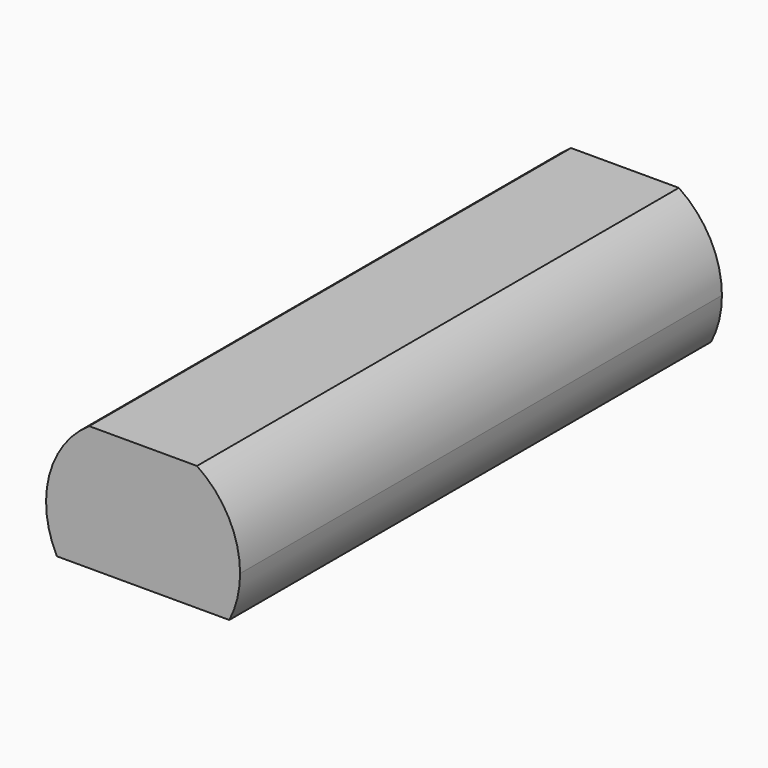
from build123d import *

# Parameters (mm, degrees)
F1_DEPTH = 83.82


with BuildPart() as f1:
    # F0 (on Front) → F1 (new body)
    with BuildSketch(Plane.XZ):
        with BuildLine():
            ThreePointArc((12, -6.698898), (13.119642, -3.696221), (13.5, -0.51424))
            ThreePointArc((13.5, -0.51424), (11.905881, 5.849721), (7.5, 10.710732))
            Line((7.5, 10.710732), (-7.5, 10.710732))
            ThreePointArc((-7.5, 10.710732), (-13.070436, 2.864175), (-12, -6.698898))
            Line((-12, -6.698898), (12, -6.698898))
        make_face()
    extrude(amount=F1_DEPTH)


solid = f1.part
